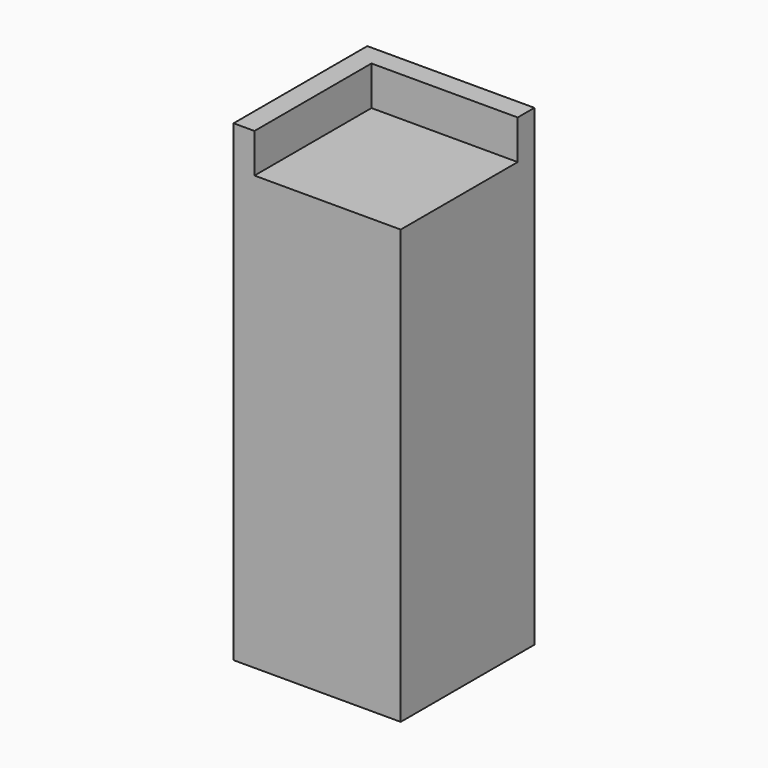
from build123d import *

# Parameters (mm, degrees)
F1_DEPTH = 50.8
F0_W     = 6.35
F0_H     = 11.938
F2_DEPTH = 50.8
F0_W_2   = 44.45
F3_DEPTH = 6.35


with BuildPart() as f1:
    # F0 (on Front) → F1 (new body)
    with BuildSketch(Plane.XZ):
        Polygon((6.35, 0), (0, 0), (0, -131.7625), (50.8, -131.7625), (50.8, 0), align=None)
    extrude(amount=F1_DEPTH)

    # F0 (on Front) → F2 (join, through all)
    with BuildSketch(Plane.XZ):
        with Locations((3.175, 5.969)):
            Rectangle(F0_W, F0_H)
    extrude(amount=F2_DEPTH)

    # F0 (on Front) → F3 (join)
    with BuildSketch(Plane.XZ):
        with Locations((28.575, 5.969)):
            Rectangle(F0_W_2, F0_H)
    extrude(amount=F3_DEPTH)


solid = f1.part
